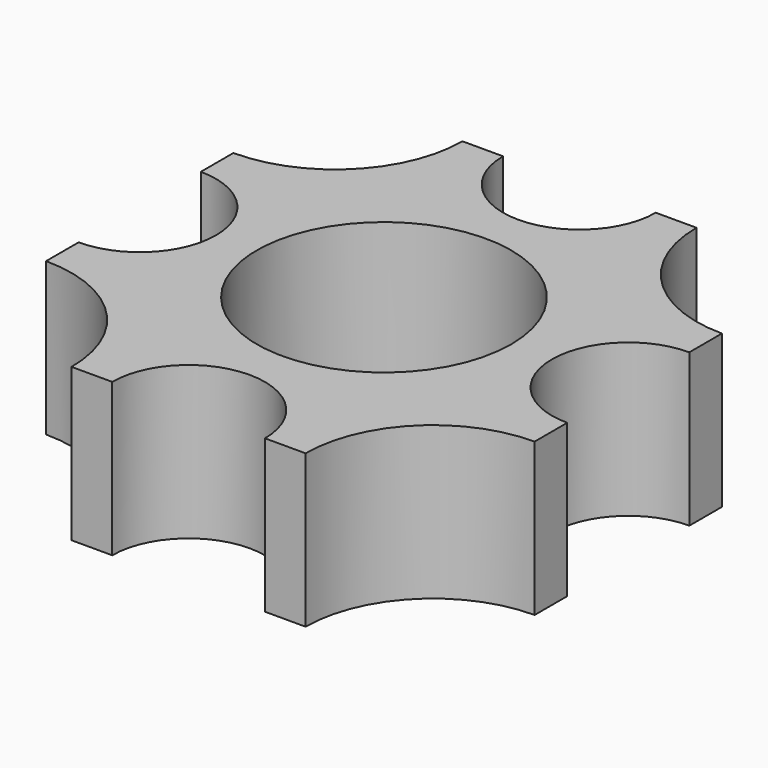
from build123d import *

# Parameters (mm, degrees)
F0_R     = 5
F0_R_2   = 3
F1_DEPTH = 6
F2_W     = 19.2
F2_H     = 19.2
F3_DEPTH = 6


with BuildPart() as f1:
    # F0 (on Top) → F1 (new body)
    with BuildSketch(Plane.XY):
        with BuildLine():
            Line((-5.6, -45), (5.6, -45))
            ThreePointArc((5.6, -45), (6.064466, -44.464466), (6.6, -44))
            Line((6.6, -44), (6.6, -32.8))
            ThreePointArc((6.6, -32.8), (4.6, -28.8), (6.6, -24.8))
            Line((6.6, -24.8), (6.6, -13.6))
            ThreePointArc((6.6, -13.6), (4.6, -9.6), (6.6, -5.6))
            Line((6.6, -5.6), (6.6, 5.6))
            ThreePointArc((6.6, 5.6), (6.064466, 6.064466), (5.6, 6.6))
            Line((5.6, 6.6), (-5.6, 6.6))
            ThreePointArc((-5.6, 6.6), (-9.6, 4.6), (-13.6, 6.6))
            Line((-13.6, 6.6), (-24.8, 6.6))
            ThreePointArc((-24.8, 6.6), (-28.8, 4.6), (-32.8, 6.6))
            Line((-32.8, 6.6), (-44, 6.6))
            ThreePointArc((-44, 6.6), (-44.464466, 6.064466), (-45, 5.6))
            Line((-45, 5.6), (-45, -5.6))
            ThreePointArc((-45, -5.6), (-43.527864, -7.363932), (-43, -9.6))
            ThreePointArc((-43, -9.6), (-43.527864, -11.836068), (-45, -13.6))
            Line((-45, -13.6), (-45, -24.8))
            ThreePointArc((-45, -24.8), (-43.527864, -26.563932), (-43, -28.8))
            ThreePointArc((-43, -28.8), (-43.527864, -31.036068), (-45, -32.8))
            Line((-45, -32.8), (-45, -44))
            ThreePointArc((-45, -44), (-44.464466, -44.464466), (-44, -45))
            Line((-44, -45), (-32.8, -45))
            ThreePointArc((-32.8, -45), (-28.8, -43), (-24.8, -45))
            Line((-24.8, -45), (-13.6, -45))
            ThreePointArc((-13.6, -45), (-9.6, -43), (-5.6, -45))
        make_face()
        with Locations((-38.4, -38.4)):
            Circle(F0_R, mode=Mode.SUBTRACT)
        with Locations((-28.8, -38.4)):
            Circle(F0_R_2, mode=Mode.SUBTRACT)
        with Locations((-38.4, -28.8)):
            Circle(F0_R_2, mode=Mode.SUBTRACT)
        with Locations((-28.8, -28.8)):
            Circle(F0_R, mode=Mode.SUBTRACT)
        with Locations((-19.2, -38.4)):
            Circle(F0_R, mode=Mode.SUBTRACT)
        with Locations((-9.6, -38.4)):
            Circle(F0_R_2, mode=Mode.SUBTRACT)
        with Locations((0, -38.4)):
            Circle(F0_R, mode=Mode.SUBTRACT)
        with Locations((-19.2, -28.8)):
            Circle(F0_R_2, mode=Mode.SUBTRACT)
        with Locations((-9.6, -28.8)):
            Circle(F0_R, mode=Mode.SUBTRACT)
        with Locations((0, -28.8)):
            Circle(F0_R_2, mode=Mode.SUBTRACT)
        with Locations((-38.4, -19.2)):
            Circle(F0_R, mode=Mode.SUBTRACT)
        with Locations((-38.4, -9.6)):
            Circle(F0_R_2, mode=Mode.SUBTRACT)
        with Locations((-28.8, -19.2)):
            Circle(F0_R_2, mode=Mode.SUBTRACT)
        with Locations((-28.8, -9.6)):
            Circle(F0_R, mode=Mode.SUBTRACT)
        with Locations((-38.4, 0)):
            Circle(F0_R, mode=Mode.SUBTRACT)
        with Locations((-28.8, 0)):
            Circle(F0_R_2, mode=Mode.SUBTRACT)
        with Locations((-19.2, -19.2)):
            Circle(F0_R, mode=Mode.SUBTRACT)
        with Locations((-9.6, -19.2)):
            Circle(F0_R_2, mode=Mode.SUBTRACT)
        with Locations((-19.2, -9.6)):
            Circle(F0_R_2, mode=Mode.SUBTRACT)
        with Locations((-9.6, -9.6)):
            Circle(F0_R, mode=Mode.SUBTRACT)
        with Locations((0, -19.2)):
            Circle(F0_R, mode=Mode.SUBTRACT)
        with Locations((0, -9.6)):
            Circle(F0_R_2, mode=Mode.SUBTRACT)
        with Locations((-19.2, 0)):
            Circle(F0_R, mode=Mode.SUBTRACT)
        with Locations((-9.6, 0)):
            Circle(F0_R_2, mode=Mode.SUBTRACT)
        Circle(F0_R, mode=Mode.SUBTRACT)
    extrude(amount=F1_DEPTH)

    # F2 (on Top) → F3 (intersect)
    with BuildSketch(Plane.XY):
        with Locations((-19.2, -19.2)):
            Rectangle(F2_W, F2_H)
    extrude(amount=F3_DEPTH, mode=Mode.INTERSECT)


solid = f1.part
